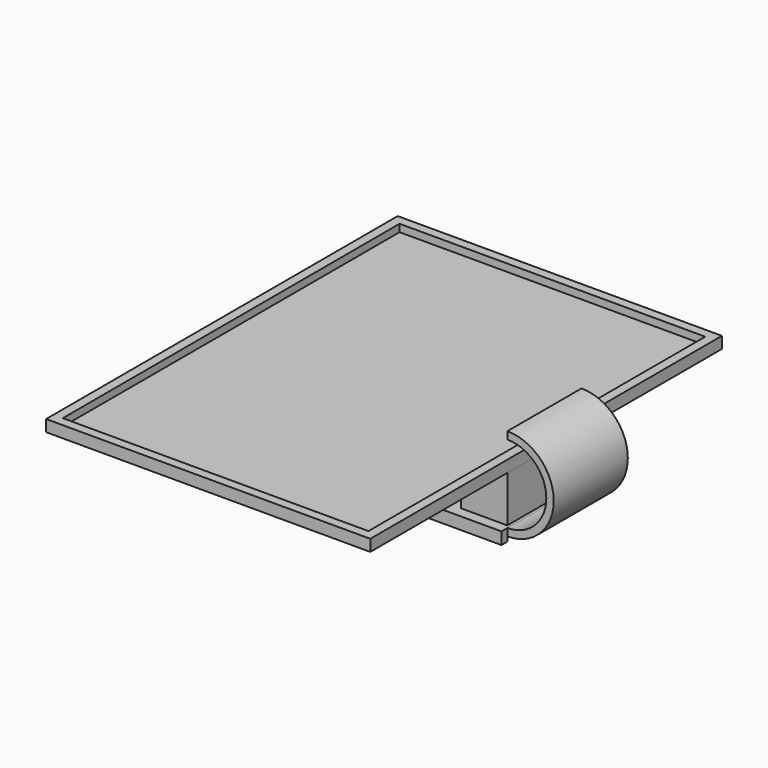
from build123d import *

# Parameters (mm, degrees)
F0_W      = 69.9999971151
F0_H      = 94.8999971151
F0_W_2    = 66
F0_H_2    = 90.9
F1_DEPTH  = 0.9
F2_W      = 69.9999971151
F2_H      = 94.8999971151
F2_W_2    = 65.9999964595
F2_H_2    = 90.8999964595
F3_DEPTH  = 1.6
F4_W      = 10
F4_H      = 20
F5_DEPTH  = 10
F6_W      = 70
F6_H      = 1.5999990573
F7_DEPTH  = 20
F8_W      = 70
F8_H      = 2.6
F9_DEPTH  = 1.6
F10_W     = 70
F10_H     = 2.6
F11_DEPTH = 1.6


with BuildPart() as f1:
    # F0 (on Top) → F1 (new body)
    with BuildSketch(Plane.XY):
        with Locations((1.8313949695, 0)):
            Rectangle(F0_W, F0_H)
        with Locations((1.8313949695, 0)):
            Rectangle(F0_W_2, F0_H_2, mode=Mode.SUBTRACT)
        with Locations((1.8313949695, 0)):
            Rectangle(F0_W_2, F0_H_2)
    extrude(amount=F1_DEPTH)

    # F2 (on face) → F3 (join)
    with BuildSketch(Plane.XY.offset(0.9)):
        with Locations((1.8313949695, 0)):
            Rectangle(F2_W, F2_H)
        with Locations((1.8313949695, 0)):
            Rectangle(F2_W_2, F2_H_2, mode=Mode.SUBTRACT)
    extrude(amount=F3_DEPTH)


with BuildPart() as f5:
    # F4 (on face) → F5 (new body)
    with BuildSketch(Plane(origin=(0, 0, 0), x_dir=(1, 0, 0), z_dir=(0, 0, -1))):
        with Locations((31.8313935271, 0.4499985576)):
            Rectangle(F4_W, F4_H)
    extrude(amount=F5_DEPTH)


with BuildPart() as f7:
    # F6 (on face) → F7 (new body)
    with BuildSketch(Plane.XZ.offset(10.4499985576)):
        with Locations((1.8313935271, -11.2858397096)):
            Rectangle(F6_W, F6_H)
        with BuildLine():
            Line((36.8313935271, -10.4858401809), (36.8313935271, -12.0858392382))
            ThreePointArc((36.8313935271, -12.0858392382), (46.8313935271, -2.0858392382), (36.8313935271, 7.9141607618))
            Line((36.8313935271, 7.9141607618), (36.8313935271, 6.3141617044))
            ThreePointArc((36.8313935271, 6.3141617044), (45.2313944697, -2.0858392382), (36.8313935271, -10.4858401809))
        make_face()
    extrude(amount=-F7_DEPTH)

    # F8 (on face) → F9 (join)
    with BuildSketch(Plane.XZ.offset(10.4499985576)):
        with Locations((1.8313935271, -11.7858401809)):
            Rectangle(F8_W, F8_H)
    extrude(amount=F9_DEPTH)

    # F10 (on face) → F11 (join)
    with BuildSketch(Plane(origin=(0, 9.5500014424, 0), x_dir=(-1, 0, 0), z_dir=(0, 1, 0))):
        with Locations((-1.8313935271, -11.7858401809)):
            Rectangle(F10_W, F10_H)
    extrude(amount=F11_DEPTH)


solid = Compound([f1.part, f5.part, f7.part])
